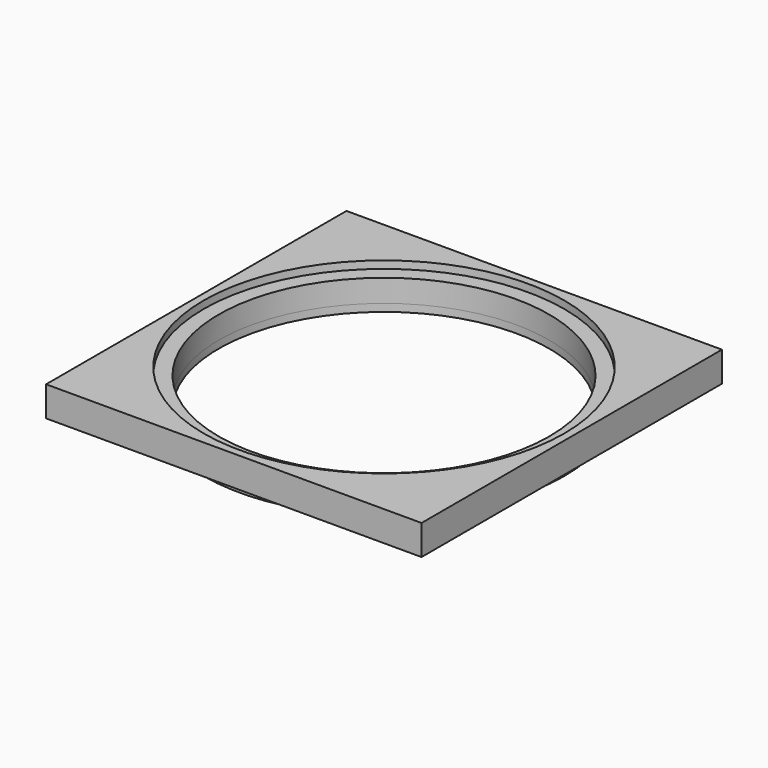
from build123d import *

# Parameters (mm, degrees)
F0_W          = 250
F0_H          = 250
F0_R          = 120
F1_DEPTH      = 20
F0_R_2        = 110
F2_DEPTH      = 15
F2_DEPTH_BACK = 5


with BuildPart() as f1:
    # F0 (on Top) → F1 (new body)
    with BuildSketch(Plane.XY):
        Rectangle(F0_W, F0_H)
        Circle(F0_R, mode=Mode.SUBTRACT)
    extrude(amount=F1_DEPTH)

    # F0 (on Top) → F2 (join, two sides)
    with BuildSketch(Plane.XY) as f2_sk:
        Circle(F0_R)
        Circle(F0_R_2, mode=Mode.SUBTRACT)
    extrude(amount=F2_DEPTH)
    extrude(f2_sk.sketch, amount=-F2_DEPTH_BACK)


solid = f1.part
